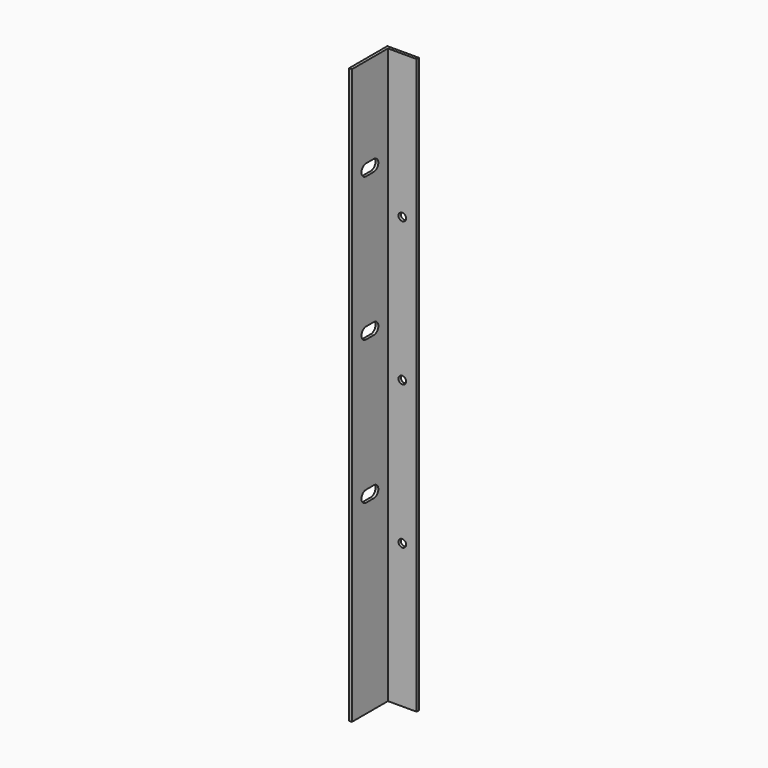
from build123d import *

# Parameters (mm, degrees)
F1_DEPTH = 600
F2_R     = 4
F3_DEPTH = 3.001
F5_DEPTH = 3.001


with BuildPart() as f1:
    # F0 (on Top) → F1 (new body)
    with BuildSketch(Plane.XY):
        Polygon((33, 0), (0, 0), (0, -50), (3, -50), (3, -3), (33, -3), align=None)
    extrude(amount=F1_DEPTH)

    # F2 (on face) → F3 (cut, through all)
    with BuildSketch(Plane.XZ.offset(3)):
        with Locations((18, 150)):
            Circle(F2_R)
        with Locations((18, 300)):
            Circle(F2_R)
        with Locations((18, 450)):
            Circle(F2_R)
    extrude(amount=-F3_DEPTH, mode=Mode.SUBTRACT)

    # F4 (on face) → F5 (cut, through all)
    with BuildSketch(Plane.YZ.offset(3)):
        with BuildLine():
            Line((-21.5, 506), (-31.5, 506))
            ThreePointArc((-31.5, 506), (-37.5, 500), (-31.5, 494))
            Line((-31.5, 494), (-21.5, 494))
            ThreePointArc((-21.5, 494), (-15.5, 500), (-21.5, 506))
        make_face()
        with BuildLine():
            Line((-21.5, 356), (-31.5, 356))
            ThreePointArc((-31.5, 356), (-37.5, 350), (-31.5, 344))
            Line((-31.5, 344), (-21.5, 344))
            ThreePointArc((-21.5, 344), (-15.5, 350), (-21.5, 356))
        make_face()
        with BuildLine():
            Line((-21.5, 206), (-31.5, 206))
            ThreePointArc((-31.5, 206), (-37.5, 200), (-31.5, 194))
            Line((-31.5, 194), (-21.5, 194))
            ThreePointArc((-21.5, 194), (-15.5, 200), (-21.5, 206))
        make_face()
    extrude(amount=-F5_DEPTH, mode=Mode.SUBTRACT)


solid = f1.part
